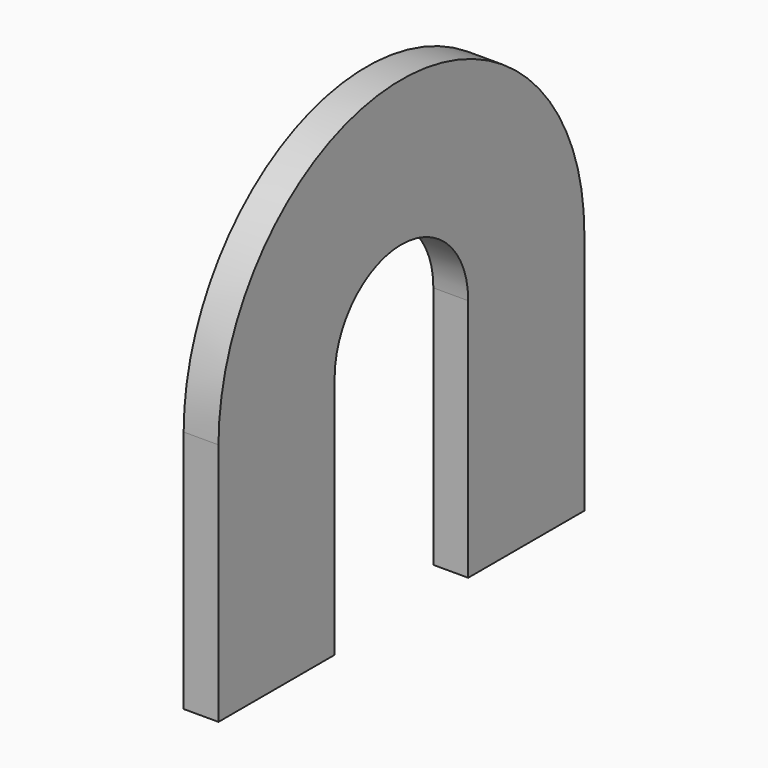
from build123d import *

# Parameters (mm, degrees)
PAD010_DEPTH = 12


with BuildPart() as support_hook:
    # Sketch023 → Pad010 (new body)
    with BuildSketch(Plane.YZ):
        with BuildLine():
            Line((-28.75, 0), (-78.75, 0))
            Line((-78.75, 0), (-78.75, 84))
            ThreePointArc((78.75, 84), (0, 162.75), (-78.75, 84))
            Line((78.75, 0), (78.75, 84))
            Line((28.75, 0), (78.75, 0))
            Line((28.75, 84), (28.75, 0))
            ThreePointArc((28.75, 84), (0, 112.75), (-28.75, 84))
            Line((-28.75, 0), (-28.75, 84))
        make_face()
    extrude(amount=PAD010_DEPTH)


with BuildPart() as support_hook_1:
    # Body011 placement: moved
    add(support_hook.part.moved(Location((200, 200, 0))))


with BuildPart() as part_mirroring007:
    # Part__Mirroring007: instance of support_hook
    add(support_hook_1.part.mirror(Plane(origin=(0, 0, 0), x_dir=(1, 0, 0), z_dir=(0, 1, 0))))


with BuildPart() as part_mirroring008:
    # Part__Mirroring008: instance of Part__Mirroring007
    add(part_mirroring007.part.mirror(Plane(origin=(0, 0, 0), x_dir=(0, -1, 0), z_dir=(1, 0, 0))))


solid = part_mirroring008.part
